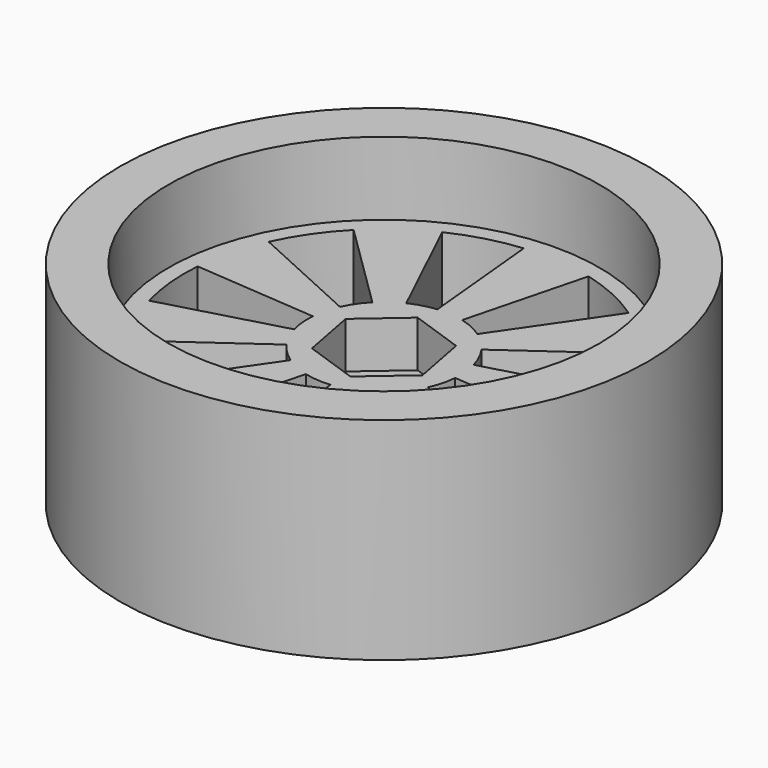
from build123d import *

# Parameters (mm, degrees)
F0_R     = 32.5
F1_DEPTH = 26
F3_DEPTH = 14.7
F4_R     = 26.5
F5_DEPTH = 9
F7_DEPTH = 25


with BuildPart() as f1:
    # F0 (on Top) → F1 (new body)
    with BuildSketch(Plane.XY):
        Circle(F0_R)
    extrude(amount=F1_DEPTH)

    # F2 (on face) → F3 (cut)
    with BuildSketch(Plane.XY.offset(26)):
        Polygon((-6.544173, 2.2746), (-5.241948, -4.53012), (1.302225, -6.80472), (6.544173, -2.2746), (5.241948, 4.53012), (-1.302225, 6.80472), align=None)
    extrude(amount=-F3_DEPTH, mode=Mode.SUBTRACT)

    # F4 (on face) → F5 (cut)
    with BuildSketch(Plane.XY.offset(26)):
        Circle(F4_R)
    extrude(amount=-F5_DEPTH, mode=Mode.SUBTRACT)

    # F6 (on face) → F7 (cut)
    with BuildSketch(Plane.XY.offset(17)):
        with BuildLine():
            Line((-22.338205, 10.185808), (-8.534389, 3.891523))
            ThreePointArc((-8.534389, 3.891523), (-7.728976, 5.314383), (-6.688723, 6.575768))
            Line((-6.688723, 6.575768), (-17.507295, 17.211645))
            ThreePointArc((-17.507295, 17.211645), (-20.230091, 13.910051), (-22.338205, 10.185808))
        make_face()
        with BuildLine():
            Line((-23.659369, -6.55594), (-9.039144, -2.50472))
            ThreePointArc((-9.039144, -2.50472), (-9.336759, -0.897036), (-9.350681, 0.737903))
            Line((-9.350681, 0.737903), (-24.474798, 1.931412))
            ThreePointArc((-24.474798, 1.931412), (-24.438357, -2.347934), (-23.659369, -6.55594))
        make_face()
        with BuildLine():
            Line((-13.910051, -20.230091), (-5.314383, -7.728976))
            ThreePointArc((-5.314383, -7.728976), (-6.575768, -6.688723), (-7.637352, -5.445236))
            Line((-7.637352, -5.445236), (-19.990271, -14.252549))
            ThreePointArc((-19.990271, -14.252549), (-17.211645, -17.507295), (-13.910051, -20.230091))
        make_face()
        with BuildLine():
            Line((2.347934, -24.438357), (0.897036, -9.336759))
            ThreePointArc((0.897036, -9.336759), (-0.737903, -9.350681), (-2.350421, -9.080488))
            Line((-2.350421, -9.080488), (-6.152074, -23.767585))
            ThreePointArc((-6.152074, -23.767585), (-1.931412, -24.474798), (2.347934, -24.438357))
        make_face()
        with BuildLine():
            Line((17.507295, -17.211645), (6.688723, -6.575768))
            ThreePointArc((6.688723, -6.575768), (5.445236, -7.637352), (4.036298, -8.466879))
            Line((4.036298, -8.466879), (10.564747, -22.161503))
            ThreePointArc((10.564747, -22.161503), (14.252549, -19.990271), (17.507295, -17.211645))
        make_face()
        with BuildLine():
            Line((24.474798, -1.931412), (9.350681, -0.737903))
            ThreePointArc((9.350681, -0.737903), (9.080488, -2.350421), (8.534389, -3.891523))
            Line((8.534389, -3.891523), (22.338205, -10.185808))
            ThreePointArc((22.338205, -10.185808), (23.767585, -6.152074), (24.474798, -1.931412))
        make_face()
        with BuildLine():
            Line((19.990271, 14.252549), (7.637352, 5.445236))
            ThreePointArc((7.637352, 5.445236), (8.466879, 4.036298), (9.039144, 2.50472))
            Line((9.039144, 2.50472), (23.659369, 6.55594))
            ThreePointArc((23.659369, 6.55594), (22.161503, 10.564747), (19.990271, 14.252549))
        make_face()
        with BuildLine():
            Line((6.152074, 23.767585), (2.350421, 9.080488))
            ThreePointArc((2.350421, 9.080488), (3.891523, 8.534389), (5.314383, 7.728976))
            Line((5.314383, 7.728976), (13.910051, 20.230091))
            ThreePointArc((13.910051, 20.230091), (10.185808, 22.338205), (6.152074, 23.767585))
        make_face()
        with BuildLine():
            Line((-0.897036, 9.336759), (-2.347934, 24.438357))
            ThreePointArc((-2.347934, 24.438357), (-6.55594, 23.659369), (-10.564747, 22.161503))
            Line((-10.564747, 22.161503), (-4.036298, 8.466879))
            ThreePointArc((-4.036298, 8.466879), (-2.50472, 9.039144), (-0.897036, 9.336759))
        make_face()
    extrude(amount=-F7_DEPTH, mode=Mode.SUBTRACT)


solid = f1.part
